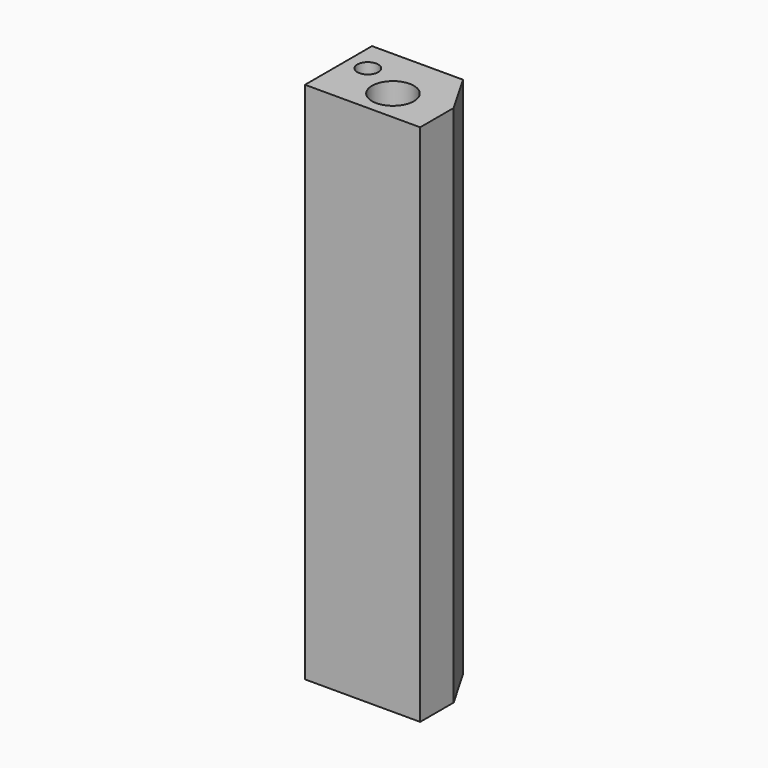
from build123d import *

# Parameters (mm, degrees)
F0_R     = 1
F0_R_2   = 0.5
F1_DEPTH = 25
F2_DEPTH = 25


with BuildPart() as f1:
    # F0 (on Top) → F1 (new body)
    with BuildSketch(Plane.XY):
        Polygon((-10.107423, 5.702915), (-11.107423, 5.702915), (-11.107423, 1.702915), (-5.607423, 1.702915), (-5.607423, 3.702915), (-6.762124, 5.702915), align=None)
        with Locations((-8.107423, 3.202915)):
            Circle(F0_R, mode=Mode.SUBTRACT)
        with Locations((-10.107423, 4.202915)):
            Circle(F0_R_2, mode=Mode.SUBTRACT)
    extrude(amount=F1_DEPTH)

    # F0 (on Top) → F2 (join)
    with BuildSketch(Plane.XY):
        Polygon((-10.107423, 5.702915), (-11.107423, 5.702915), (-11.107423, 1.702915), (-5.607423, 1.702915), (-5.607423, 3.702915), (-6.762124, 5.702915), align=None)
        with Locations((-8.107423, 3.202915)):
            Circle(F0_R, mode=Mode.SUBTRACT)
        with Locations((-10.107423, 4.202915)):
            Circle(F0_R_2, mode=Mode.SUBTRACT)
    extrude(amount=F2_DEPTH)


solid = f1.part
